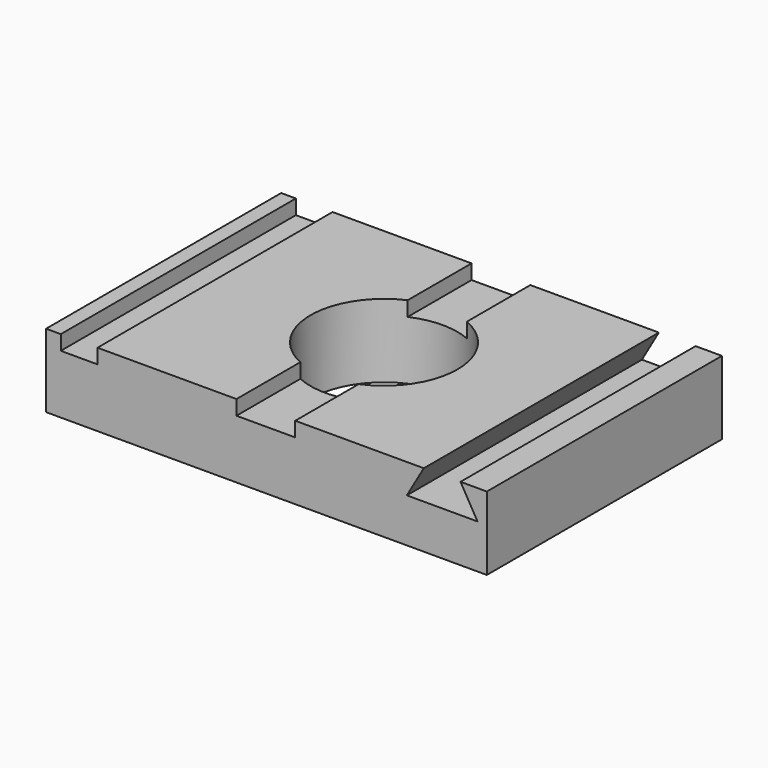
from build123d import *

# Parameters (mm, degrees)
F0_W     = 76.2
F0_H     = 50.8
F0_R     = 12.7
F1_DEPTH = 12.7
F2_W     = 6.35
F2_H     = 50.8
F3_DEPTH = 2.54
F5_DEPTH = 50.8


with BuildPart() as f1:
    # F0 (on Top) → F1 (new body)
    with BuildSketch(Plane.XY):
        Rectangle(F0_W, F0_H)
        Circle(F0_R, mode=Mode.SUBTRACT)
    extrude(amount=F1_DEPTH)

    # F2 (on face) → F3 (cut)
    with BuildSketch(Plane.XY.offset(12.7)):
        with BuildLine():
            Line((-5.1856809296, -11.5930459025), (-5.1856809296, -25.4))
            Line((-5.1856809296, -25.4), (4.9743190704, -25.4))
            Line((4.9743190704, -25.4), (4.9743190704, -11.6852963071))
            ThreePointArc((4.9743190704, -11.6852963071), (-0.1153082528, -12.6994765249), (-5.1856809296, -11.5930459025))
        make_face()
        with BuildLine():
            Line((4.9743190704, 25.4), (-5.1856809296, 25.4))
            Line((-5.1856809296, 25.4), (-5.1856809296, 11.5930459025))
            ThreePointArc((-5.1856809296, 11.5930459025), (-0.1153082528, 12.6994765249), (4.9743190704, 11.6852963071))
            Line((4.9743190704, 11.6852963071), (4.9743190704, 25.4))
        make_face()
        with Locations((-32.385, 0)):
            Rectangle(F2_W, F2_H)
    extrude(amount=-F3_DEPTH, mode=Mode.SUBTRACT)

    # F4 (on face) → F5 (cut, through all)
    with BuildSketch(Plane.XZ.offset(25.4)):
        Polygon((33.5493190704, 12.7), (27.1993190704, 12.7), (24.2663797029, 7.62), (36.4822584379, 7.62), align=None)
    extrude(amount=-F5_DEPTH, mode=Mode.SUBTRACT)


solid = f1.part
